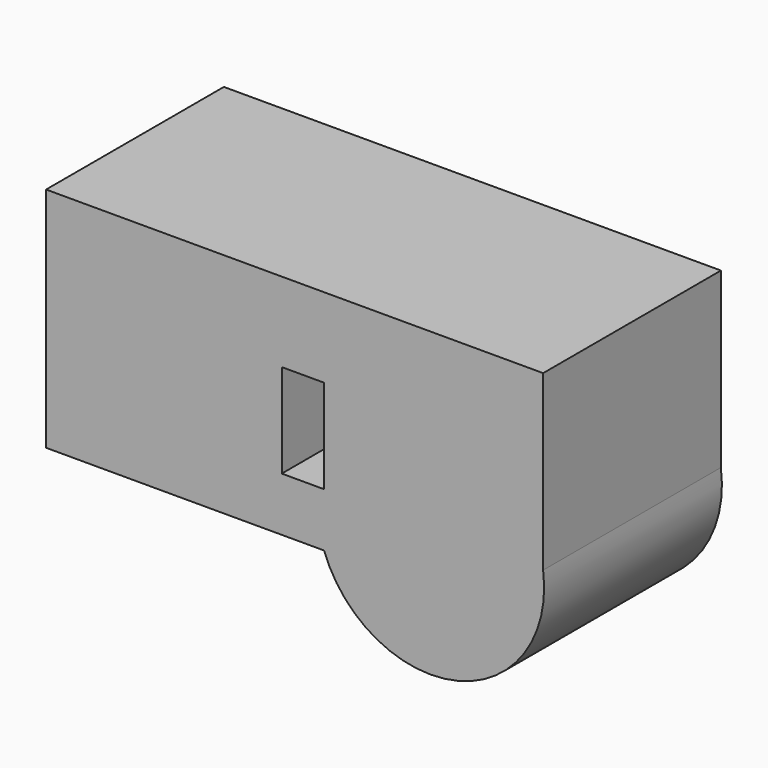
from build123d import *

# Parameters (mm, degrees)
F0_W     = 134.6869021654
F0_H     = 45.5279685557
F1_DEPTH = 127


with BuildPart() as f1:
    # F0 (on Front) → F1 (new body)
    with BuildSketch(Plane.XZ):
        with Locations((-67.3434510827, 58.0955874175)):
            Rectangle(F0_W, F0_H)
        Polygon((0, -18.2586107403), (0, 35.3316031396), (-134.6869021654, 35.3316031396), (-134.6869021654, -49.084842205), (24.1867378354, -49.084842205), (24.1867378354, -18.2586107403), align=None)
        with BuildLine():
            ThreePointArc((24.1867378354, -49.084842205), (100.6166635351, -89.8386268766), (149.388641119, -18.2586107403))
            Line((149.388641119, -18.2586107403), (24.1867378354, -18.2586107403))
            Line((24.1867378354, -18.2586107403), (24.1867378354, -49.084842205))
        make_face()
        Polygon((149.388641119, 80.8595716953), (0, 80.8595716953), (0, 35.3316031396), (24.1867378354, 35.3316031396), (24.1867378354, -18.2586107403), (149.388641119, -18.2586107403), align=None)
    extrude(amount=F1_DEPTH)


solid = f1.part
